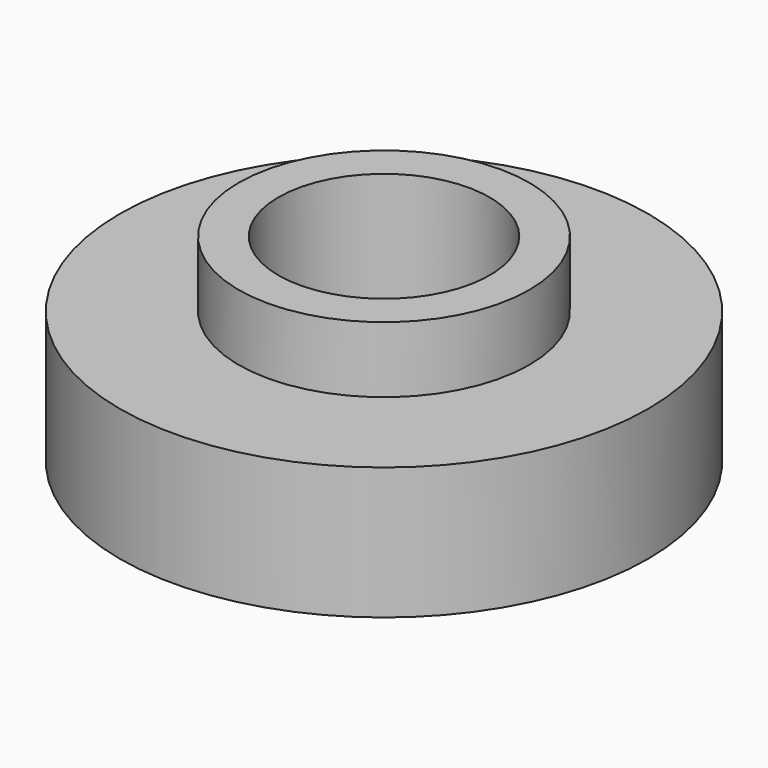
from build123d import *

# Parameters (mm, degrees)
F3_D = 160


with BuildPart() as f1:
    # F0 (on Front) → F1 (revolve)
    with BuildSketch(Plane.XZ):
        Polygon((0, 150), (0, 0), (200, 0), (200, 100), (110, 100), (110, 150), align=None)
    revolve(axis=Axis((0, 0, 75), (0, 0, 1)))

    # F3 (through all)
    with Locations(Plane.XY.offset(150)):
        with Locations((0, 0)):
            Hole(F3_D / 2)


solid = f1.part
